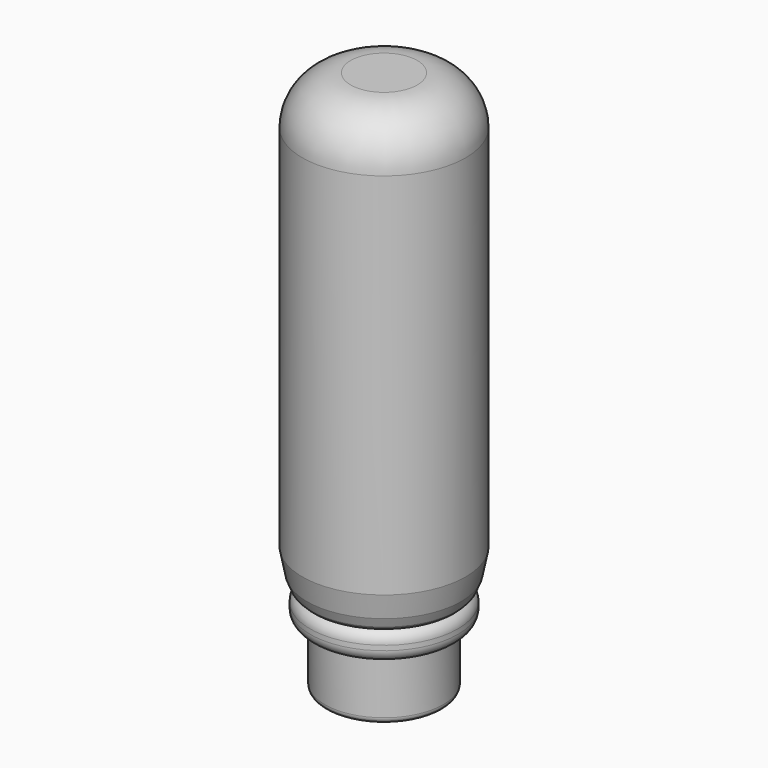
from build123d import *

# Parameters (mm, degrees)
SKETCH037_R     = 4.9
PAD032_DEPTH    = 5
SKETCH038_R     = 6.1
PAD033_DEPTH    = 2.4
FILLET002_R     = 1
FILLET003_R     = 0.5
SKETCH039_R     = 6.75
PAD034_DEPTH    = 37.5
FILLET004_R     = 4
CHAMFER_SIZE    = 1
CHAMFER001_SIZE = 1
CHAMFER002_SIZE = 1
SKETCH040_R     = 3.05
POCKET008_DEPTH = 6
FILLET005_R     = 0.3


with BuildPart() as part:
    # Sketch037 → Pad032 (new body)
    with BuildSketch(Plane.XY):
        Circle(SKETCH037_R)
    extrude(amount=PAD032_DEPTH)

    # Sketch038 (on Face3 of Pad032) → Pad033 (join)
    with BuildSketch(Plane.XY.offset(5)):
        Circle(SKETCH038_R)
    extrude(amount=PAD033_DEPTH)

    # Fillet002
    fillet002_edges = [part.edges().sort_by_distance(p)[0] for p in [
        (-6.1, 0, 7.4),
        (-6.1, 0, 5),
    ]]
    fillet(fillet002_edges, radius=FILLET002_R)

    # Fillet003
    fillet003_edges = [part.edges().sort_by_distance(p)[0] for p in [
        (-4.9, 0, 0),
    ]]
    fillet(fillet003_edges, radius=FILLET003_R)

    # Sketch039 (on Face8 of Fillet003) → Pad034 (join)
    with BuildSketch(Plane.XY.offset(7.4)):
        Circle(SKETCH039_R)
    extrude(amount=PAD034_DEPTH)

    # Fillet004
    fillet004_edges = [part.edges().sort_by_distance(p)[0] for p in [
        (-6.75, 0, 44.9),
    ]]
    fillet(fillet004_edges, radius=FILLET004_R)

    # Chamfer
    chamfer_edges = [part.edges().sort_by_distance(p)[0] for p in [
        (-6.75, 0, 7.4),
    ]]
    chamfer(chamfer_edges, length=CHAMFER_SIZE)

    # Chamfer001
    chamfer001_edges = [part.edges().sort_by_distance(p)[0] for p in [
        (-6.75, 0, 8.4),
    ]]
    chamfer(chamfer001_edges, length=CHAMFER001_SIZE)

    # Chamfer002
    chamfer002_edges = [part.edges().sort_by_distance(p)[0] for p in [
        (-6.749971, 0, 9.4),
    ]]
    chamfer(chamfer002_edges, length=CHAMFER002_SIZE)

    # Sketch040 (on Face14 of Chamfer002) → Pocket008 (cut)
    with BuildSketch(Plane(origin=(0, 0, 0), x_dir=(1, 0, 0), z_dir=(0, 0, -1))):
        Circle(SKETCH040_R)
    extrude(amount=-POCKET008_DEPTH, mode=Mode.SUBTRACT)

    # Fillet005
    fillet005_edges = [part.edges().sort_by_distance(p)[0] for p in [
        (-3.05, 0, 0),
    ]]
    fillet(fillet005_edges, radius=FILLET005_R)


solid = part.part
